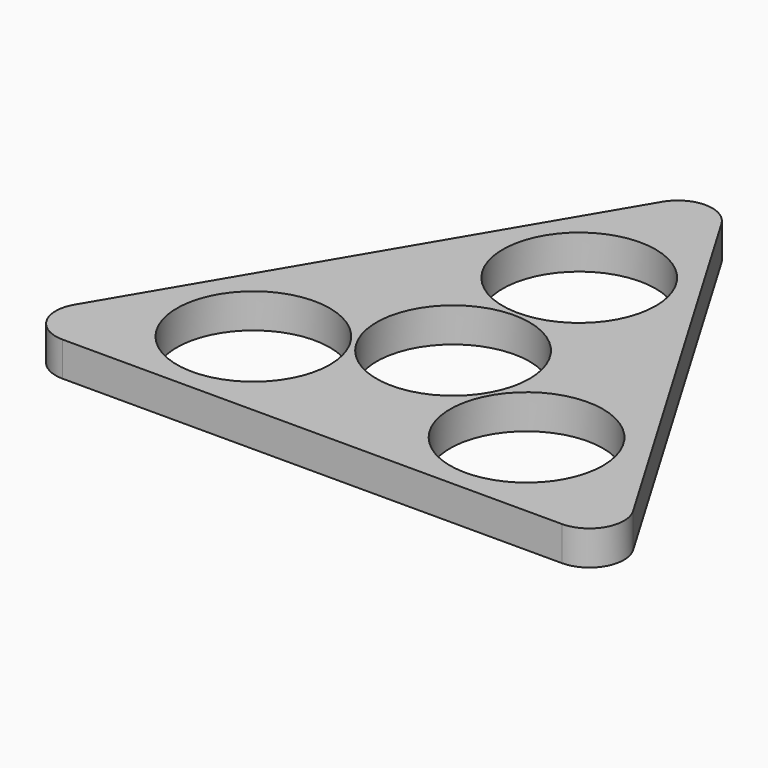
from build123d import *

# Parameters (mm, degrees)
F0_R     = 11.1
F1_DEPTH = 5


with BuildPart() as f1:
    # F0 (on Top) → F1 (new body)
    with BuildSketch(Plane.XY):
        with BuildLine():
            Line((40.542962, 7.543453), (4.304747, 68.875949))
            ThreePointArc((4.304747, 68.875949), (0, 71.332496), (-4.304747, 68.875949))
            Line((-4.304747, 68.875949), (-40.542962, 7.543453))
            ThreePointArc((-40.542962, 7.543453), (-40.580868, 2.521822), (-36.238215, 0))
            Line((-36.238215, 0), (36.238215, 0))
            ThreePointArc((36.238215, 0), (40.580868, 2.521822), (40.542962, 7.543453))
        make_face()
        with Locations((-19.828189, 14.1)):
            Circle(F0_R, mode=Mode.SUBTRACT)
        with Locations((0, 25.547811)):
            Circle(F0_R, mode=Mode.SUBTRACT)
        with Locations((19.828189, 14.1)):
            Circle(F0_R, mode=Mode.SUBTRACT)
        with Locations((0, 48.443432)):
            Circle(F0_R, mode=Mode.SUBTRACT)
    extrude(amount=F1_DEPTH)


solid = f1.part
